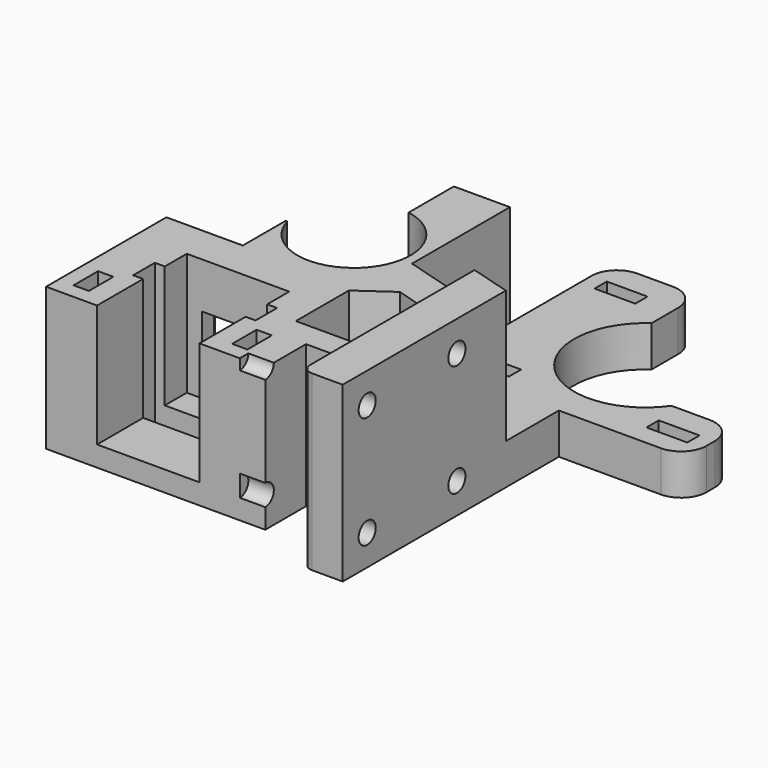
from build123d import *

# Parameters (mm, degrees)
PAD_DEPTH       = 34
SKETCH001_W     = 13
SKETCH001_H     = 9
POCKET_DEPTH    = 30
POCKET001_DEPTH = 26
SKETCH003_R     = 4.1
SKETCH003_W     = 8
SKETCH003_H     = 3
POCKET002_DEPTH = 50
SKETCH004_W     = 55
SKETCH004_H     = 71
POCKET003_DEPTH = 6
SKETCH005_R     = 11.1
POCKET004_DEPTH = 8
SKETCH006_R     = 11.1
POCKET005_DEPTH = 8
SKETCH007_W     = 16
SKETCH007_H     = 19
POCKET006_DEPTH = 13
SKETCH008_R     = 1.6
POCKET007_DEPTH = 70
SKETCH009_R     = 8
POCKET008_DEPTH = 9
SKETCH010_W     = 10
SKETCH010_H     = 10
POCKET009_DEPTH = 50
SKETCH011_W     = 20.1
SKETCH011_H     = 22
POCKET010_DEPTH = 24
SKETCH012_W     = 24
SKETCH012_H     = 5.3
POCKET011_DEPTH = 34
SKETCH013_W     = 9
SKETCH013_H     = 10
POCKET012_DEPTH = 13
SKETCH014_R     = 1.6
POCKET013_DEPTH = 65
SKETCH015_R     = 2.1
POCKET014_DEPTH = 25
SKETCH016_W     = 4
SKETCH016_H     = 8
POCKET015_DEPTH = 13
SKETCH017_W     = 4
SKETCH017_H     = 8
POCKET016_DEPTH = 13
SKETCH018_W     = 8.3764433845
SKETCH018_H     = 8
POCKET017_DEPTH = 8
POCKET018_DEPTH = 34
SKETCH028_W     = 3
SKETCH028_H     = 6
POCKET021_DEPTH = 30
SKETCH029_W     = 6
SKETCH029_H     = 8
POCKET022_DEPTH = 8
SKETCH030_W     = 5
SKETCH030_H     = 4.1
POCKET023_DEPTH = 5
SKETCH031_R     = 14
POCKET024_DEPTH = 8
FILLET_R        = 5
FILLET001_R     = 8
FILLET002_R     = 2
SKETCH032_W     = 0.8
SKETCH032_H     = 12.960033
SKETCH032_H_2   = 18.592667
SKETCH032_H_3   = 21.285773
SKETCH032_H_4   = 19.165005
SKETCH032_H_5   = 14.006805
PAD005_DEPTH    = 8
SKETCH033_W     = 14.006805
SKETCH033_H     = 0.4
POCKET025_DEPTH = 0.4
SKETCH034_W     = 19.165005
SKETCH034_H     = 0.4
POCKET026_DEPTH = 0.4
SKETCH035_W     = 6.5730920622
SKETCH035_H     = 0.4
SKETCH035_W_2   = 6.5759728454
POCKET027_DEPTH = 0.4
SKETCH036_W     = 8.0541353146
SKETCH036_H     = 0.4
SKETCH036_W_2   = 7.9271525313
POCKET028_DEPTH = 0.4
SKETCH037_W     = 18.592667
SKETCH037_H     = 0.4
POCKET029_DEPTH = 0.4
SKETCH038_W     = 12.960033
SKETCH038_H     = 0.4
POCKET030_DEPTH = 0.4
SKETCH057_W     = 8
SKETCH057_H     = 28
POCKET045_DEPTH = 15
PAD010_DEPTH    = 28
SKETCH062_W     = 5
SKETCH062_H     = 5.8
PAD011_DEPTH    = 15


with BuildPart() as part:
    # Sketch → Pad (new body)
    with BuildSketch(Plane.XY):
        Polygon((-62.5483196155, -12.1364338916), (-62.5483196155, 20.8635661084), (-47.5483196155, 20.8635661084), (-47.5483196155, 52.8635661084), (-23.5483196155, 52.8635661084), (-23.5483196155, 77.8635661084), (-6.5483196155, 77.8635661084), (-6.5483196155, 46.8635661084), (25.4516803845, 46.8635661084), (25.4516803845, 34.8635661084), (0.4516803845, 34.8635661084), (0.4516803845, -18.1364338916), (-7.5483196155, -18.1364338916), (-7.5483196155, -2.1364338916), (-19.5483196155, -2.1364338916), (-19.5483196155, -12.1364338916), align=None)
    extrude(amount=PAD_DEPTH)

    # Sketch001 → Pocket (cut)
    with BuildSketch(Plane.XY.offset(34)):
        with Locations((-41.0483196155, 48.3635661084)):
            Rectangle(SKETCH001_W, SKETCH001_H)
    extrude(amount=-POCKET_DEPTH, mode=Mode.SUBTRACT)

    # Sketch002 → Pocket001 (cut)
    with BuildSketch(Plane.XY.offset(34)):
        Polygon((-23.5483196155, 52.8635661084), (-23.5483196155, 28.8635661084), (0.4516803845, 21.8635661084), (0.4516803845, 34.8635661084), (25.4516803845, 34.8635661084), (25.4516803845, 46.8635661084), (-6.5483196155, 46.8635661084), (-6.5483196155, 77.8635661084), (-23.5483196155, 77.8635661084), align=None)
    extrude(amount=-POCKET001_DEPTH, mode=Mode.SUBTRACT)

    # Sketch003 → Pocket002 (cut)
    with BuildSketch(Plane.XY.offset(34)):
        with Locations((-36.5483196155, 30.8635661084)):
            Circle(SKETCH003_R)
        with Locations((-16.5483196155, 71.3635661084)):
            Rectangle(SKETCH003_W, SKETCH003_H)
        with Locations((-16.5483196155, 40.3635661084)):
            Rectangle(SKETCH003_W, SKETCH003_H)
        with Locations((18.4516803845, 40.3635661084)):
            Rectangle(SKETCH003_W, SKETCH003_H)
    extrude(amount=-POCKET002_DEPTH, mode=Mode.SUBTRACT)

    # Sketch004 → Pocket003 (cut)
    with BuildSketch(Plane.XY.offset(34)):
        with Locations((-35.0483196155, 17.3635661084)):
            Rectangle(SKETCH004_W, SKETCH004_H)
    extrude(amount=-POCKET003_DEPTH, mode=Mode.SUBTRACT)

    # Sketch005 → Pocket004 (cut)
    with BuildSketch(Plane.XY.offset(28)):
        with Locations((-36.5483196155, 30.8635661084)):
            Circle(SKETCH005_R)
    extrude(amount=-POCKET004_DEPTH, mode=Mode.SUBTRACT)

    # Sketch006 → Pocket005 (cut)
    with BuildSketch(Plane(origin=(0, 0, 0), x_dir=(1, 0, 0), z_dir=(0, 0, -1))):
        with Locations((-36.5483196155, -30.8635661084)):
            Circle(SKETCH006_R)
    extrude(amount=-POCKET005_DEPTH, mode=Mode.SUBTRACT)

    # Sketch007 → Pocket006 (cut)
    with BuildSketch(Plane(origin=(-47.5483196155, 0, 0), x_dir=(0, -1, 0), z_dir=(-1, 0, 0))):
        with Locations((-35.8635661084, 18.5)):
            Rectangle(SKETCH007_W, SKETCH007_H)
    extrude(amount=-POCKET006_DEPTH, mode=Mode.SUBTRACT)

    # Sketch008 → Pocket007 (cut)
    with BuildSketch(Plane(origin=(0, 52.8635661084, 0), x_dir=(-1, 0, 0), z_dir=(0, 1, 0))):
        with Locations((42.5483196155, 14)):
            Circle(SKETCH008_R)
    extrude(amount=-POCKET007_DEPTH, mode=Mode.SUBTRACT)

    # Sketch009 → Pocket008 (cut)
    with BuildSketch(Plane.XY.offset(28)):
        with Locations((-36.5483196155, 30.8635661084)):
            Circle(SKETCH009_R)
    extrude(amount=-POCKET008_DEPTH, mode=Mode.SUBTRACT)

    # Sketch010 → Pocket009 (cut)
    with BuildSketch(Plane(origin=(0, 27.8635661084, 0), x_dir=(-1, 0, 0), z_dir=(0, 1, 0))):
        with Locations((44.5483196155, 14)):
            Rectangle(SKETCH010_W, SKETCH010_H)
    extrude(amount=-POCKET009_DEPTH, mode=Mode.SUBTRACT)

    # Sketch011 → Pocket010 (cut)
    with BuildSketch(Plane.XY.offset(28)):
        with Locations((-42.4983196155, -1.1364338916)):
            Rectangle(SKETCH011_W, SKETCH011_H)
    extrude(amount=-POCKET010_DEPTH, mode=Mode.SUBTRACT)

    # Sketch012 → Pocket011 (cut)
    with BuildSketch(Plane.XY.offset(28)):
        with Locations((-42.4983196155, 1.8135661084)):
            Rectangle(SKETCH012_W, SKETCH012_H)
    extrude(amount=-POCKET011_DEPTH, mode=Mode.SUBTRACT)

    # Sketch013 → Pocket012 (cut)
    with BuildSketch(Plane(origin=(-62.5483196155, 0, 0), x_dir=(0, -1, 0), z_dir=(-1, 0, 0))):
        with Locations((-17.2828049239, 14)):
            Rectangle(SKETCH013_W, SKETCH013_H)
    extrude(amount=-POCKET012_DEPTH, mode=Mode.SUBTRACT)

    # Sketch014 → Pocket013 (cut)
    with BuildSketch(Plane.XY.offset(28)):
        with Locations((-54.5483196155, 16.8635661084)):
            Circle(SKETCH014_R)
    extrude(amount=-POCKET013_DEPTH, mode=Mode.SUBTRACT)

    # Sketch015 → Pocket014 (cut)
    with BuildSketch(Plane.YZ.offset(0.4516803845)):
        with Locations((-12.1364338916, 28)):
            Circle(SKETCH015_R)
        with Locations((9.8635661084, 28)):
            Circle(SKETCH015_R)
        with Locations((-12.1364338916, 6)):
            Circle(SKETCH015_R)
        with Locations((9.8635661084, 6)):
            Circle(SKETCH015_R)
    extrude(amount=-POCKET014_DEPTH, mode=Mode.SUBTRACT)

    # Sketch016 → Pocket015 (cut)
    with BuildSketch(Plane(origin=(0, 0, 0), x_dir=(1, 0, 0), z_dir=(0, 0, -1))):
        with Locations((-4.5483196155, -9.8635661084)):
            Rectangle(SKETCH016_W, SKETCH016_H)
    extrude(amount=-POCKET015_DEPTH, mode=Mode.SUBTRACT)

    # Sketch017 → Pocket016 (cut)
    with BuildSketch(Plane.XY.offset(8)):
        with Locations((-4.5483196155, 9.8635661084)):
            Rectangle(SKETCH017_W, SKETCH017_H)
    extrude(amount=-POCKET016_DEPTH, mode=Mode.SUBTRACT)

    # Sketch018 → Pocket017 (cut)
    with BuildSketch(Plane.XY.offset(28)):
        with Locations((-11.7365413078, 9.7828049239)):
            Rectangle(SKETCH018_W, SKETCH018_H)
    extrude(amount=-POCKET017_DEPTH, mode=Mode.SUBTRACT)

    # Sketch019 → Pocket018 (cut)
    with BuildSketch(Plane.XY.offset(28)):
        Polygon((-12.5483196155, 2.8635661084), (-12.5483196155, 18.4338549245), (-19.1531672327, 20.3602688128), (-25.5483196155, 15.8635661084), (-25.5483196155, 2.8635661084), align=None)
    extrude(amount=-POCKET018_DEPTH, mode=Mode.SUBTRACT)

    # Sketch028 → Pocket021 (cut)
    with BuildSketch(Plane.XY.offset(28)):
        with Locations((-58.0483196155, -6.1364338916)):
            Rectangle(SKETCH028_W, SKETCH028_H)
        with Locations((-26.9483196155, -6.1364338916)):
            Rectangle(SKETCH028_W, SKETCH028_H)
    extrude(amount=-POCKET021_DEPTH, mode=Mode.SUBTRACT)

    # Sketch029 → Pocket022 (cut)
    with BuildSketch(Plane(origin=(0, 52.8635661084, 0), x_dir=(-1, 0, 0), z_dir=(0, 1, 0))):
        with Locations((28.5483196155, 22)):
            Rectangle(SKETCH029_W, SKETCH029_H)
        with Locations((28.5483196155, 6)):
            Rectangle(SKETCH029_W, SKETCH029_H)
    extrude(amount=-POCKET022_DEPTH, mode=Mode.SUBTRACT)

    # Sketch030 → Pocket023 (cut)
    with BuildSketch(Plane(origin=(-34.5483196155, 0, 0), x_dir=(0, -1, 0), z_dir=(-1, 0, 0))):
        with Locations((-48.3635661084, 6.05)):
            Rectangle(SKETCH030_W, SKETCH030_H)
        with Locations((-48.3635661084, 21.95)):
            Rectangle(SKETCH030_W, SKETCH030_H)
    extrude(amount=-POCKET023_DEPTH, mode=Mode.SUBTRACT)

    # Sketch031 → Pocket024 (cut)
    with BuildSketch(Plane.XY.offset(8)):
        with Locations((1.4516803845, 54.8635661084)):
            Circle(SKETCH031_R)
    extrude(amount=-POCKET024_DEPTH, mode=Mode.SUBTRACT)

    # Fillet
    fillet_edges = [part.edges().sort_by_distance(p)[0] for p in [
        (-6.54832, 77.863566, 4),
        (-23.54832, 77.863566, 4),
        (25.45168, 46.863566, 4),
        (25.45168, 34.863566, 4),
        (-47.54832, 52.863566, 2),
    ]]
    fillet(fillet_edges, radius=FILLET_R)

    # Fillet001
    fillet001_edges = [part.edges().sort_by_distance(p)[0] for p in [
        (-62.54832, 20.863566, 4.5),
        (-62.54832, 20.863566, 23.5),
    ]]
    fillet(fillet001_edges, radius=FILLET001_R)

    # Fillet002
    fillet002_edges = [part.edges().sort_by_distance(p)[0] for p in [
        (-7.54832, -18.136434, 14),
        (-7.54832, -18.136434, 31),
    ]]
    fillet(fillet002_edges, radius=FILLET002_R)

    # Sketch032 → Pad005 (new body)
    with BuildSketch(Plane(origin=(0, 0, 8), x_dir=(1, 0, 0), z_dir=(0, 0, -1))):
        with Locations((-44.482614, -30.8393805)):
            Rectangle(SKETCH032_W, SKETCH032_H)
        with Locations((-41.043218, -30.9141505)):
            Rectangle(SKETCH032_W, SKETCH032_H_2)
        with Locations((-36.656744, -30.8650065)):
            Rectangle(SKETCH032_W, SKETCH032_H_3)
        with Locations((-32.369962, -30.9270575)):
            Rectangle(SKETCH032_W, SKETCH032_H_4)
        with Locations((-28.880724, -30.8643035)):
            Rectangle(SKETCH032_W, SKETCH032_H_5)
    extrude(amount=PAD005_DEPTH)

    # Sketch033 → Pocket025 (cut)
    with BuildSketch(Plane(origin=(-29.280724, 0, 0), x_dir=(0, -1, 0), z_dir=(-1, 0, 0))):
        with Locations((-30.8643035, 7.8)):
            Rectangle(SKETCH033_W, SKETCH033_H)
    extrude(amount=-POCKET025_DEPTH, mode=Mode.SUBTRACT)

    # Sketch034 → Pocket026 (cut)
    with BuildSketch(Plane.YZ.offset(-31.969962)):
        with Locations((30.9270575, 7.8)):
            Rectangle(SKETCH034_W, SKETCH034_H)
    extrude(amount=-POCKET026_DEPTH, mode=Mode.SUBTRACT)

    # Sketch035 → Pocket027 (cut)
    with BuildSketch(Plane(origin=(-37.056744, 0, 0), x_dir=(0, -1, 0), z_dir=(-1, 0, 0))):
        with Locations((-23.5086660311, 7.8)):
            Rectangle(SKETCH035_W, SKETCH035_H)
        with Locations((-38.2199065773, 7.8)):
            Rectangle(SKETCH035_W_2, SKETCH035_H)
    extrude(amount=-POCKET027_DEPTH, mode=Mode.SUBTRACT)

    # Sketch036 → Pocket028 (cut)
    with BuildSketch(Plane(origin=(-32.769962, 0, 0), x_dir=(0, -1, 0), z_dir=(-1, 0, 0))):
        with Locations((-36.4824923427, 7.8)):
            Rectangle(SKETCH036_W, SKETCH036_H)
        with Locations((-25.3081312657, 7.8)):
            Rectangle(SKETCH036_W_2, SKETCH036_H)
    extrude(amount=-POCKET028_DEPTH, mode=Mode.SUBTRACT)

    # Sketch037 → Pocket029 (cut)
    with BuildSketch(Plane(origin=(-41.443218, 0, 0), x_dir=(0, -1, 0), z_dir=(-1, 0, 0))):
        with Locations((-30.9141505, 7.8)):
            Rectangle(SKETCH037_W, SKETCH037_H)
    extrude(amount=-POCKET029_DEPTH, mode=Mode.SUBTRACT)

    # Sketch038 → Pocket030 (cut)
    with BuildSketch(Plane(origin=(-44.882614, 0, 0), x_dir=(0, -1, 0), z_dir=(-1, 0, 0))):
        with Locations((-30.8393805, 7.8)):
            Rectangle(SKETCH038_W, SKETCH038_H)
    extrude(amount=-POCKET030_DEPTH, mode=Mode.SUBTRACT)

    # Sketch057 → Pocket045 (cut)
    with BuildSketch(Plane(origin=(-62.5483196155, 0, 0), x_dir=(0, -1, 0), z_dir=(-1, 0, 0))):
        with Locations((-16.8635661084, 14)):
            Rectangle(SKETCH057_W, SKETCH057_H)
    extrude(amount=-POCKET045_DEPTH, mode=Mode.SUBTRACT)

    # Sketch058 → Pad010 (new body)
    with BuildSketch(Plane.XY.offset(28)):
        Polygon((-62.5483196155, 12.8635661084), (-62.5483196155, 17.3635661084), (-53.0483196155, 17.3635661084), (-53.0483196155, 15.3635661084), (-55.5483196155, 15.3635661084), (-55.5483196155, 12.8635661084), align=None)
    extrude(amount=-PAD010_DEPTH)

    # Sketch062 → Pad011 (new body)
    with BuildSketch(Plane(origin=(-62.5483196155, 0, 0), x_dir=(0, -1, 0), z_dir=(-1, 0, 0))):
        with Locations((-14.8635661084, 2.9)):
            Rectangle(SKETCH062_W, SKETCH062_H)
        with Locations((-14.8635661084, 25.1)):
            Rectangle(SKETCH062_W, SKETCH062_H)
    extrude(amount=-PAD011_DEPTH)


solid = part.part
